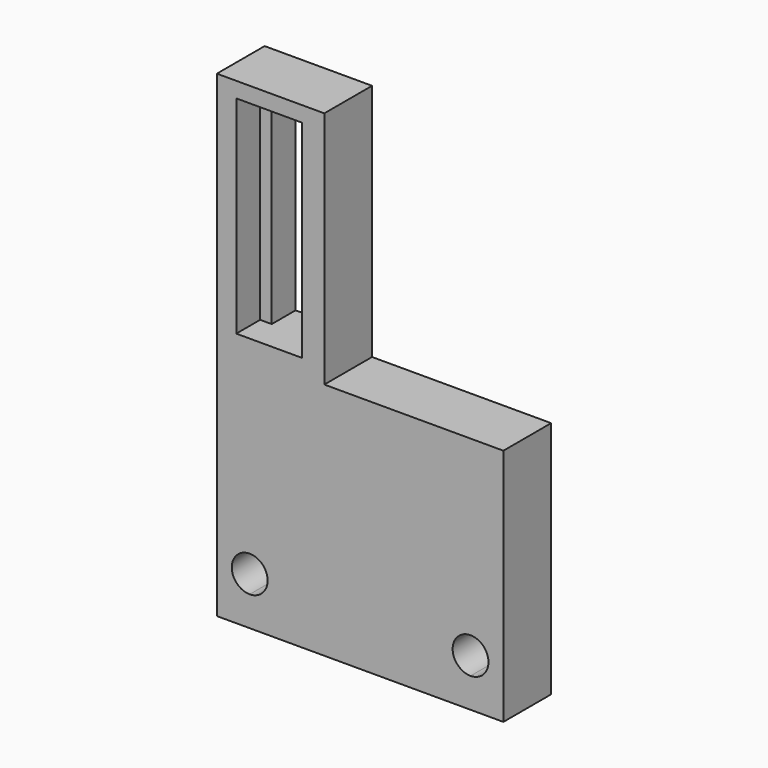
from build123d import *

# Parameters (mm, degrees)
F0_W     = 9
F0_H     = 20
F1_DEPTH = 5
F0_W_2   = 0.9687067941
F0_H_2   = 17.3483081162
F0_W_3   = 1.0312932059
F2_DEPTH = 2.5


with BuildPart() as f1:
    # F0 (on Front) → F1 (new body)
    with BuildSketch(Plane.XZ):
        with Locations((-6.7829505354, 23.421495545)):
            Rectangle(F0_W, F0_H)
        Polygon((-9.6574071795, 14.7795006633), (-9.6574071795, 32.1278087795), (-8.6887003854, 32.1278087795), (-5.1887003854, 32.1278087795), (-4.1574071795, 32.1278087795), (-4.1574071795, 14.7795006633), (-5.1887003854, 14.7795006633), (-8.6887003854, 14.7795006633), align=None, mode=Mode.SUBTRACT)
        Polygon((-2.2829505354, 13.421495545), (-11.2829505354, 13.421495545), (-11.2829505354, -6.578504455), (-8.5329505354, -6.578504455), (0.7170494646, -6.578504455), (9.9670494646, -6.578504455), (12.7170494646, -6.578504455), (12.7170494646, 13.421495545), align=None)
        with BuildLine():
            ThreePointArc((-7.0329505354, -2.578504455), (-7.4722903636, -3.6391646268), (-8.5329505354, -4.078504455))
            ThreePointArc((-8.5329505354, -4.078504455), (-9.5936107072, -1.5178442832), (-7.0329505354, -2.578504455))
        make_face(mode=Mode.SUBTRACT)
        with BuildLine():
            ThreePointArc((11.4670494646, -2.578504455), (11.0277096364, -3.6391646268), (9.9670494646, -4.078504455))
            ThreePointArc((9.9670494646, -4.078504455), (8.4670494646, -2.578504455), (9.9670494646, -1.078504455))
            ThreePointArc((9.9670494646, -1.078504455), (11.0277096364, -1.5178442832), (11.4670494646, -2.578504455))
        make_face(mode=Mode.SUBTRACT)
    extrude(amount=F1_DEPTH)

    # F0 (on Front) → F2 (join)
    with BuildSketch(Plane.XZ):
        with Locations((-9.1730537824, 23.4536547214)):
            Rectangle(F0_W_2, F0_H_2)
        with Locations((-4.6730537824, 23.4536547214)):
            Rectangle(F0_W_3, F0_H_2)
    extrude(amount=F2_DEPTH)


solid = f1.part
